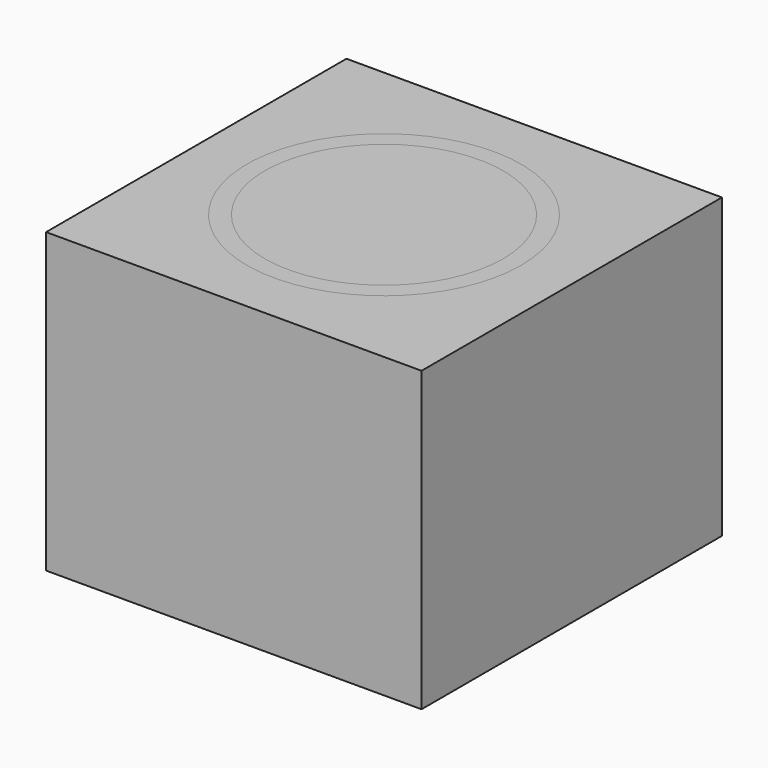
from build123d import *

# Parameters (mm, degrees)
BOX_W             = 1.26
BOX_H             = 1.26
BOX_DEPTH         = 1
CYLINDER_R        = 0.39
CYLINDER_DEPTH    = 1
CYLINDER001_R     = 0.46
CYLINDER001_DEPTH = 1
CYLINDER002_R     = 0.4
CYLINDER002_DEPTH = 1


with BuildPart() as water_region:
    # Box → Box (new body)
    with BuildSketch(Plane.XY):
        with Locations((0.63, 0.63)):
            Rectangle(BOX_W, BOX_H)
    extrude(amount=BOX_DEPTH)


with BuildPart() as fuel_region:
    # Cylinder → Cylinder (new body)
    with BuildSketch(Plane(origin=(0.63, 0.63, 0), x_dir=(1, 0, 0), z_dir=(0, 0, 1))):
        Circle(CYLINDER_R)
    extrude(amount=CYLINDER_DEPTH)


with BuildPart() as clad_or:
    # Cylinder001 → Cylinder001 (new body)
    with BuildSketch(Plane(origin=(0.63, 0.63, 0), x_dir=(1, 0, 0), z_dir=(0, 0, 1))):
        Circle(CYLINDER001_R)
    extrude(amount=CYLINDER001_DEPTH)


with BuildPart() as clad_ir:
    # Cylinder002 → Cylinder002 (new body)
    with BuildSketch(Plane(origin=(0.63, 0.63, 0), x_dir=(1, 0, 0), z_dir=(0, 0, 1))):
        Circle(CYLINDER002_R)
    extrude(amount=CYLINDER002_DEPTH)


solid = Compound([water_region.part, fuel_region.part, clad_or.part, clad_ir.part])
